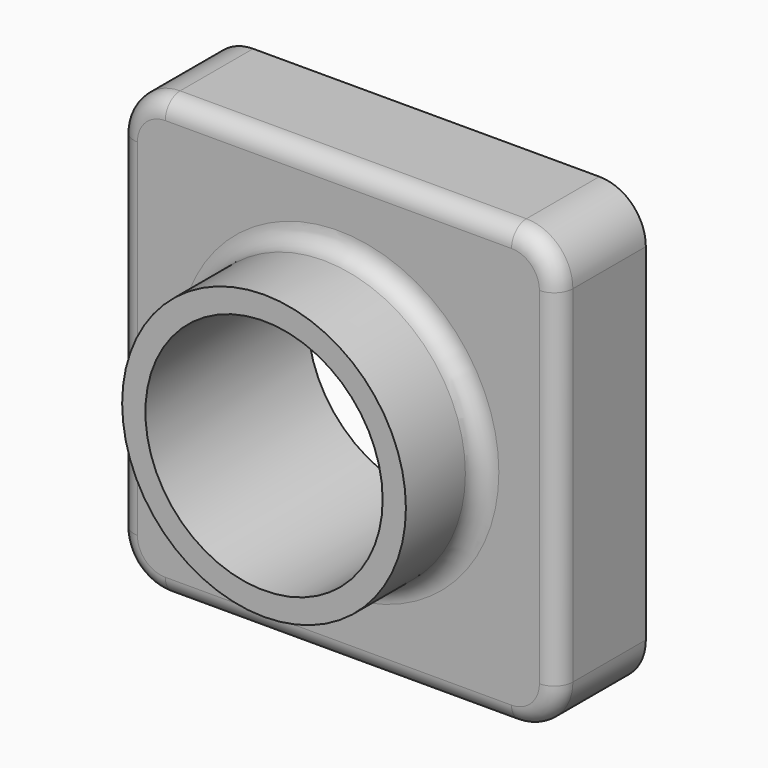
from build123d import *

# Parameters (mm, degrees)
F0_W     = 120
F0_H     = 120
F1_DEPTH = 30
F2_R     = 38.7612750812
F3_DEPTH = 25.4
F4_R     = 32.4112735689
F5_DEPTH = 55.401
F6_R     = 12.7
F7_R     = 5.08
F8_T     = -2.54


with BuildPart() as f1:
    # F0 (on Front) → F1 (new body)
    with BuildSketch(Plane.XZ):
        Rectangle(F0_W, F0_H)
    extrude(amount=F1_DEPTH)

    # F2 (on face) → F3 (join)
    with BuildSketch(Plane.XZ.offset(30)):
        Circle(F2_R)
    extrude(amount=F3_DEPTH)

    # F4 (on face) → F5 (cut, through all)
    with BuildSketch(Plane.XZ.offset(55.4)):
        Circle(F4_R)
    extrude(amount=-F5_DEPTH, mode=Mode.SUBTRACT)

    # F6
    f6_edges = [f1.edges().sort_by_distance(p)[0] for p in [
        (-60, -15, -60),
        (-60, -15, 60),
        (60, -15, 60),
        (60, -15, -60),
    ]]
    fillet(f6_edges, radius=F6_R)

    # F7
    f7_edges = [f1.edges().sort_by_distance(p)[0] for p in [
        (0, -30, -60),
        (-56.280256, -30, -56.280256),
        (56.280256, -30, -56.280256),
        (-60, -30, 0),
        (60, -30, 0),
        (-56.280256, -30, 56.280256),
        (56.280256, -30, 56.280256),
        (0, -30, 60),
        (-38.761275, -30, 0),
    ]]
    fillet(f7_edges, radius=F7_R)

    # F8
    f8_openings = [f1.faces().sort_by_distance(p)[0] for p in [
        (0, 0, -58.302944),
    ]]
    offset(amount=F8_T, openings=f8_openings)


solid = f1.part
